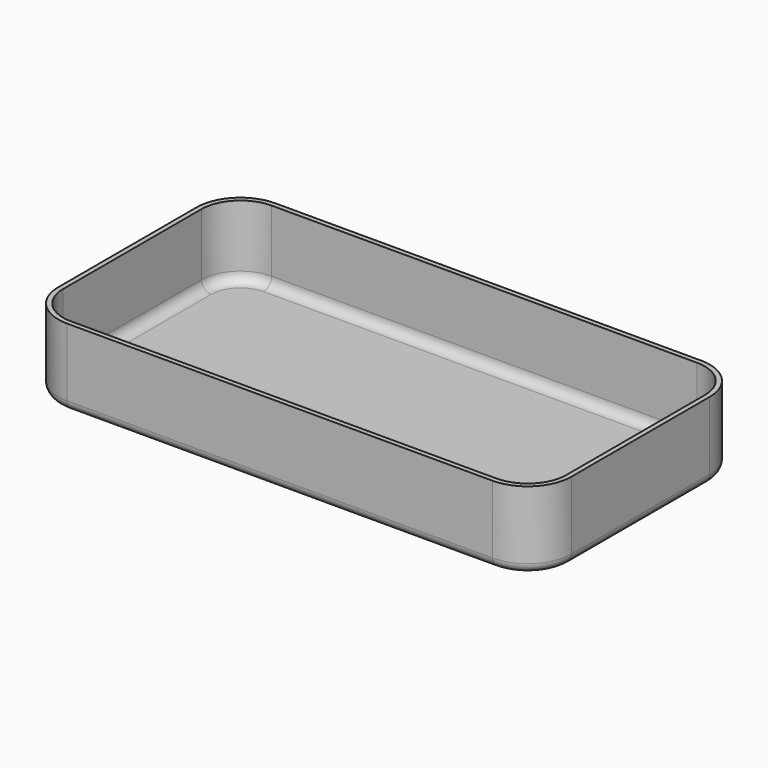
from build123d import *

# Parameters (mm, degrees)
F0_W     = 52.8
F0_H     = 26.8
F0_W_2   = 51.8
F0_H_2   = 25.8
F1_DEPTH = 0.6
F2_DEPTH = 8
F3_R     = 4
F4_R     = 4.5
F5_R     = 1


with BuildPart() as f1:
    # F0 (on Top) → F1 (new body)
    with BuildSketch(Plane.XY):
        Rectangle(F0_W, F0_H)
        Rectangle(F0_W_2, F0_H_2, mode=Mode.SUBTRACT)
        Rectangle(F0_W_2, F0_H_2)
    extrude(amount=F1_DEPTH)

    # F0 (on Top) → F2 (join)
    with BuildSketch(Plane.XY):
        Rectangle(F0_W, F0_H)
        Rectangle(F0_W_2, F0_H_2, mode=Mode.SUBTRACT)
    extrude(amount=F2_DEPTH)

    # F3
    f3_edges = [f1.edges().sort_by_distance(p)[0] for p in [
        (-25.9, 12.9, 4.3),
        (25.9, 12.9, 4.3),
        (25.9, -12.9, 4.3),
        (-25.9, -12.9, 4.3),
    ]]
    fillet(f3_edges, radius=F3_R)

    # F4
    f4_edges = [f1.edges().sort_by_distance(p)[0] for p in [
        (26.4, 13.4, 4),
        (26.4, -13.4, 4),
        (-26.4, 13.4, 4),
        (-26.4, -13.4, 4),
    ]]
    fillet(f4_edges, radius=F4_R)

    # F5
    f5_edges = [f1.edges().sort_by_distance(p)[0] for p in [
        (0, 12.9, 0.6),
        (0, 13.4, 0),
    ]]
    fillet(f5_edges, radius=F5_R)


solid = f1.part
